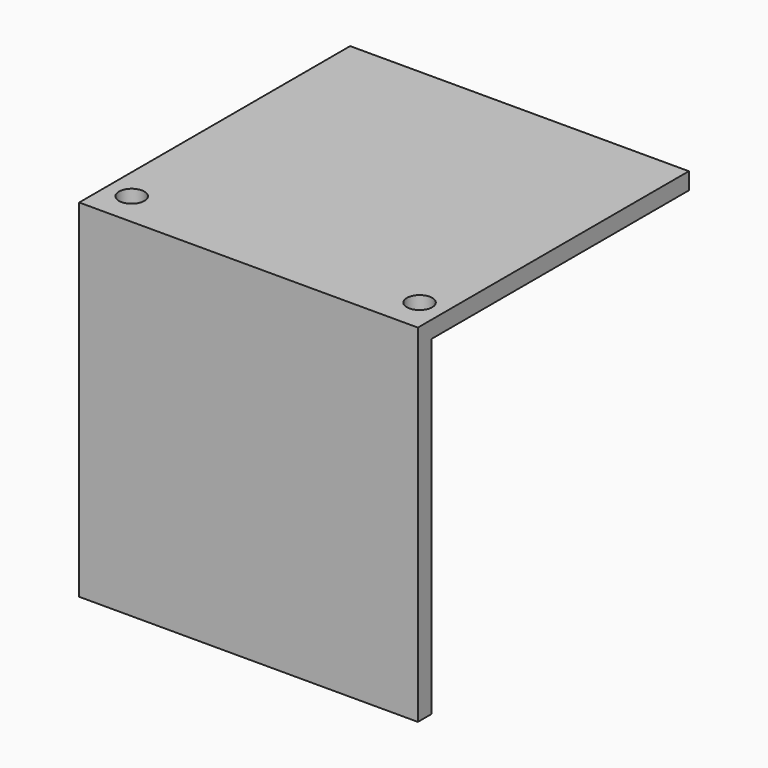
from build123d import *

# Parameters (mm, degrees)
F0_W          = 40
F0_H          = 40
F1_DEPTH      = 2
F2_W          = 2
F2_H          = 39
F3_DEPTH      = 20
F3_DEPTH_BACK = 20
F5_D          = 3


with BuildPart() as f1:
    # F0 (on Top) → F1 (new body)
    with BuildSketch(Plane.XY):
        Rectangle(F0_W, F0_H)
    extrude(amount=F1_DEPTH)

    # F2 (on Right) → F3 (join, two sides)
    with BuildSketch(Plane.YZ) as f3_sk:
        with Locations((-19, -19.5)):
            Rectangle(F2_W, F2_H)
    extrude(amount=F3_DEPTH)
    extrude(f3_sk.sketch, amount=-F3_DEPTH_BACK)

    # F5 (through all)
    with Locations(Plane.XY.offset(2)):
        with Locations((-17, -16), (17, -16)):
            Hole(F5_D / 2)


solid = f1.part
